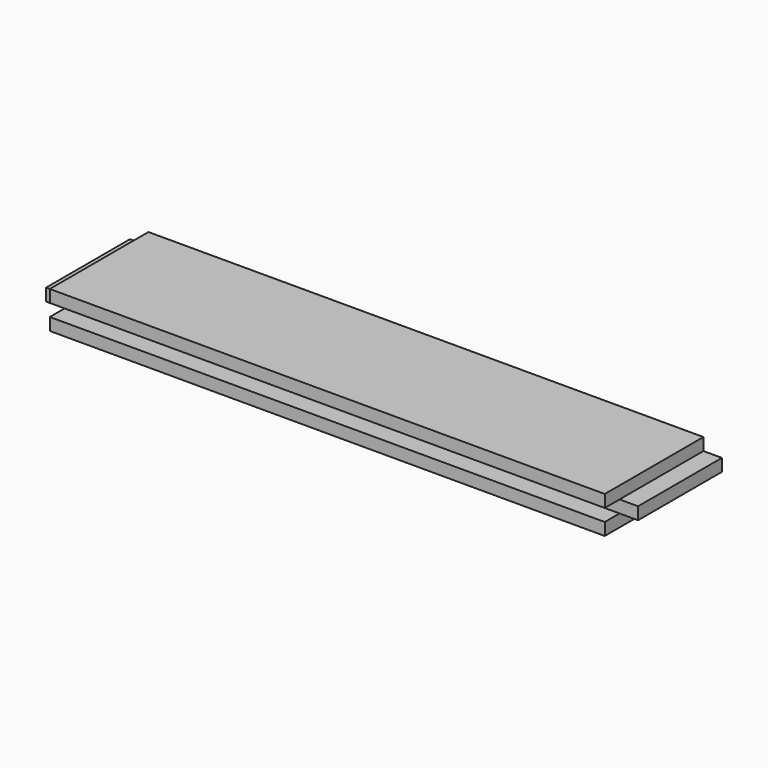
from build123d import *

# Parameters (mm, degrees)
F0_W     = 63.5
F0_H     = 19.05
F1_DEPTH = 152.4
F2_W     = 9.525
F2_H     = 6.35
F3_DEPTH = 63.501
F4_W     = 9.525
F4_H     = 6.35
F5_DEPTH = 304.801


with BuildPart() as f1:
    # F0 (on Right) → F1 (new body, symmetric)
    with BuildSketch(Plane.YZ):
        with Locations((-31.75, 9.525)):
            Rectangle(F0_W, F0_H)
    extrude(amount=F1_DEPTH, both=True)

    # F2 (on face) → F3 (cut, through all)
    with BuildSketch(Plane.XZ.offset(63.5)):
        with Locations((147.6375, 15.875)):
            Rectangle(F2_W, F2_H)
        with Locations((147.6375, 3.175)):
            Rectangle(F2_W, F2_H)
        with Locations((-147.6375, 15.875)):
            Rectangle(F2_W, F2_H)
        with Locations((-147.6375, 3.175)):
            Rectangle(F2_W, F2_H)
    extrude(amount=-F3_DEPTH, mode=Mode.SUBTRACT)

    # F4 (on face) → F5 (cut, through all)
    with BuildSketch(Plane.YZ.offset(152.4)):
        with Locations((-58.7375, 9.525)):
            Rectangle(F4_W, F4_H)
    extrude(amount=-F5_DEPTH, mode=Mode.SUBTRACT)


solid = f1.part
